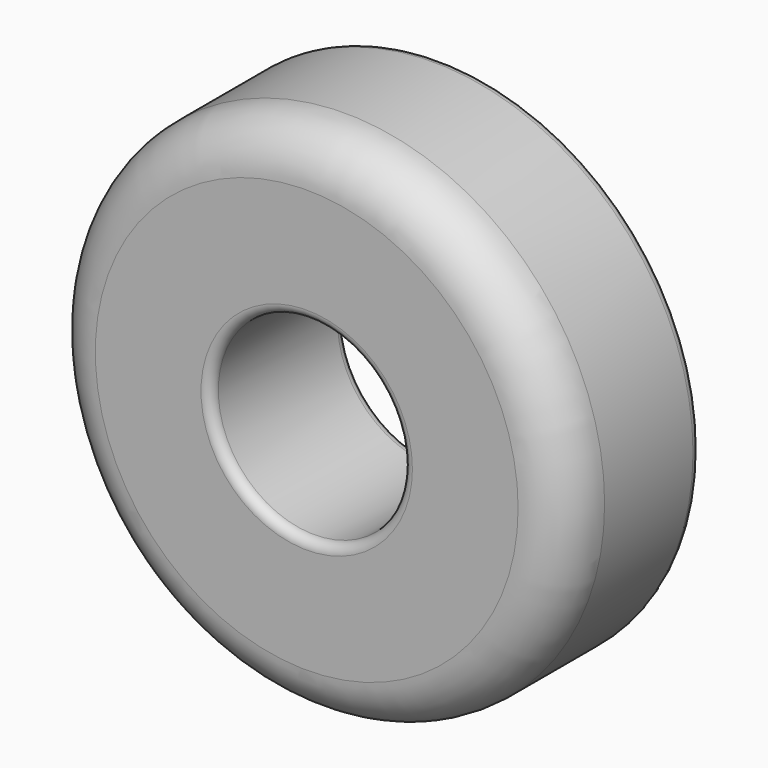
from build123d import *

# Parameters (mm, degrees)
F0_R     = 2.7
F0_R_2   = 1
F1_DEPTH = 1.75
F2_R     = 0.5
F3_R     = 0.1


with BuildPart() as f1:
    # F0 (on Front) → F1 (new body)
    with BuildSketch(Plane.XZ):
        Circle(F0_R)
        Circle(F0_R_2, mode=Mode.SUBTRACT)
    extrude(amount=F1_DEPTH)

    # F2
    f2_edges = [f1.edges().sort_by_distance(p)[0] for p in [
        (-2.7, -1.75, 0),
    ]]
    fillet(f2_edges, radius=F2_R)

    # F3
    f3_edges = [f1.edges().sort_by_distance(p)[0] for p in [
        (-1, -1.75, 0),
        (-2.7, 0, 0),
        (-1, 0, 0),
    ]]
    fillet(f3_edges, radius=F3_R)


solid = f1.part
